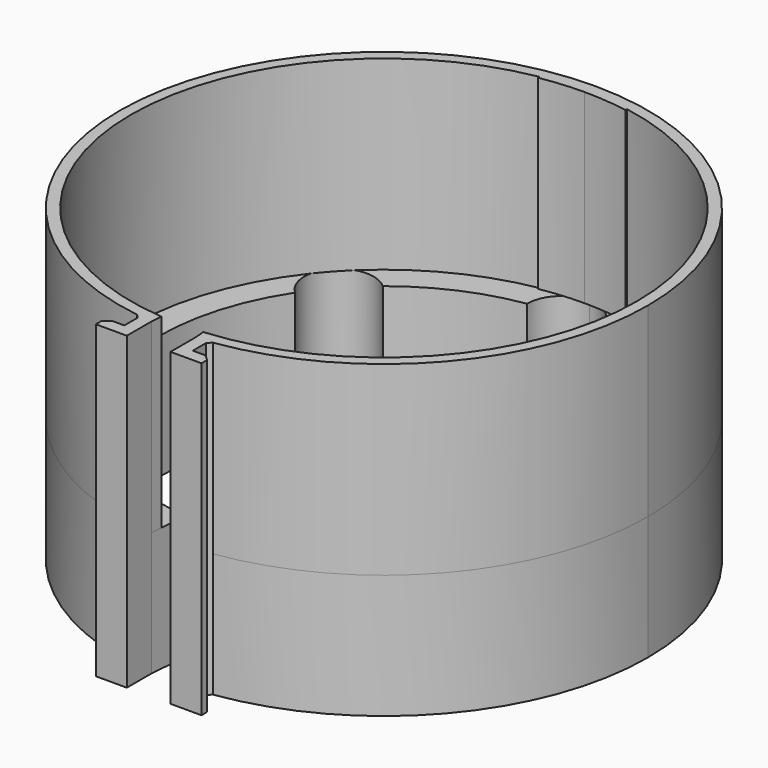
from build123d import *

# Parameters (mm, degrees)
PAD008_DEPTH = 20
PAD009_DEPTH = 30
PAD010_DEPTH = 20
PAD011_DEPTH = 30
PAD012_DEPTH = 30
PAD013_DEPTH = 20
PAD014_DEPTH = 30


with BuildPart() as part:
    # Sketch016 → Pad008 (new body)
    with BuildSketch(Plane.XY):
        with BuildLine():
            ThreePointArc((0, 42.6), (-30.122749, 30.122749), (-42.6, 0))
            Line((-42.6, 0), (-36.3, 0))
            ThreePointArc((-30.313128, 19.970084), (-34.771084, 10.424093), (-36.3, 0))
            ThreePointArc((-22.782464, 28.260385), (-30.692947, 27.880567), (-30.313128, 19.970084))
            ThreePointArc((-5.6, 35.865443), (-14.691844, 33.193971), (-22.782464, 28.260385))
            ThreePointArc((0, 41.465443), (-3.959798, 39.825241), (-5.6, 35.865443))
            Line((0, 42.6), (0, 41.465443))
        make_face()
    pad008 = extrude(amount=-PAD008_DEPTH)

    # Sketch017 → Pad009 (join)
    with BuildSketch(Plane.XY):
        with BuildLine():
            ThreePointArc((0, 40.8), (-28.849963, 28.849959), (-40.800013, 0))
            Line((-40.800013, 0), (-42.600013, 0))
            ThreePointArc((0, 42.6), (-30.122756, 30.122752), (-42.600013, 0))
            Line((0, 42.6), (0, 40.8))
        make_face()
    pad009 = extrude(amount=PAD009_DEPTH)

    # Sketch018 → Pad010 (join)
    with BuildSketch(Plane.XY):
        with BuildLine():
            ThreePointArc((-36.3, 0), (-26.707583, -24.584446), (-3, -36.175821))
            Line((-3, -36.175821), (-3.520661, -42.454269))
            ThreePointArc((-42.6, 0), (-31.342784, -28.851168), (-3.520661, -42.454269))
            Line((-42.6, 0), (-36.3, 0))
        make_face()
    pad010 = extrude(amount=-PAD010_DEPTH)

    # Sketch019 → Pad011 (join)
    with BuildSketch(Plane.XY):
        with BuildLine():
            ThreePointArc((0, 42.6), (-42.563552, 1.761838), (-3.520661, -42.454269))
            Line((-3.371901, -40.660427), (-3.520661, -42.454269))
            ThreePointArc((0, 40.8), (-40.765092, 1.687394), (-3.371901, -40.660427))
            Line((0, 42.6), (0, 40.8))
        make_face()
    pad011 = extrude(amount=PAD011_DEPTH)

    # Mirrored001: Pad011, Pad010, Pad009, Pad008 across Sketch019 V_Axis
    add(pad011.mirror(Plane(origin=(0, 0, 0), x_dir=(0, 0, 1), z_dir=(1, 0, 0))))
    add(pad010.mirror(Plane(origin=(0, 0, 0), x_dir=(0, 0, 1), z_dir=(1, 0, 0))))
    add(pad009.mirror(Plane(origin=(0, 0, 0), x_dir=(0, 0, 1), z_dir=(1, 0, 0))))
    add(pad008.mirror(Plane(origin=(0, 0, 0), x_dir=(0, 0, 1), z_dir=(1, 0, 0))))

    # Sketch020 → Pad012 (join)
    with BuildSketch(Plane.XY):
        with BuildLine():
            ThreePointArc((-6.120661, -42.158006), (-4.822937, -42.326106), (-3.520661, -42.454269))
            Line((-3.520661, -42.454269), (-3.520661, -47.454269))
            Line((-3.520661, -47.454269), (-8.520661, -47.454269))
            Line((-8.520661, -47.454269), (-8.520661, -46.293368))
            Line((-8.520661, -46.293368), (-7.520661, -45.454269))
            Line((-7.520661, -45.454269), (-5.520661, -45.454269))
            Line((-5.520661, -45.454269), (-5.520661, -42.758006))
            Line((-5.520661, -42.758006), (-6.120661, -42.158006))
        make_face()
    pad012 = extrude(amount=PAD012_DEPTH)

    # Sketch020 → Pad013 (join)
    with BuildSketch(Plane.XY):
        with BuildLine():
            ThreePointArc((-6.120661, -42.158006), (-4.822937, -42.326106), (-3.520661, -42.454269))
            Line((-3.520661, -42.454269), (-3.520661, -47.454269))
            Line((-3.520661, -47.454269), (-8.520661, -47.454269))
            Line((-8.520661, -47.454269), (-8.520661, -46.293368))
            Line((-8.520661, -46.293368), (-7.520661, -45.454269))
            Line((-7.520661, -45.454269), (-5.520661, -45.454269))
            Line((-5.520661, -45.454269), (-5.520661, -42.758006))
            Line((-5.520661, -42.758006), (-6.120661, -42.158006))
        make_face()
    pad013 = extrude(amount=-PAD013_DEPTH)

    # Mirrored002: Pad012, Pad013 across Sketch020 V_Axis
    add(pad012.mirror(Plane(origin=(0, 0, 0), x_dir=(0, 0, 1), z_dir=(1, 0, 0))))
    add(pad013.mirror(Plane(origin=(0, 0, 0), x_dir=(0, 0, 1), z_dir=(1, 0, 0))))

    # Sketch022 → Pad014 (join)
    with BuildSketch(Plane.XY):
        with BuildLine():
            ThreePointArc((0, 40.8), (-3.555954, 40.644744), (-7.084846, 40.180156))
            Line((-7.084846, 40.180156), (-7.031948, 39.880156))
            ThreePointArc((0, 40.495372), (-3.529404, 40.341275), (-7.031948, 39.880156))
            ThreePointArc((7.031948, 39.880156), (3.529404, 40.341275), (0, 40.495372))
            Line((7.084846, 40.180156), (7.031948, 39.880156))
            ThreePointArc((7.084846, 40.180156), (3.555954, 40.644744), (0, 40.8))
        make_face()
    extrude(amount=PAD014_DEPTH)


solid = part.part
